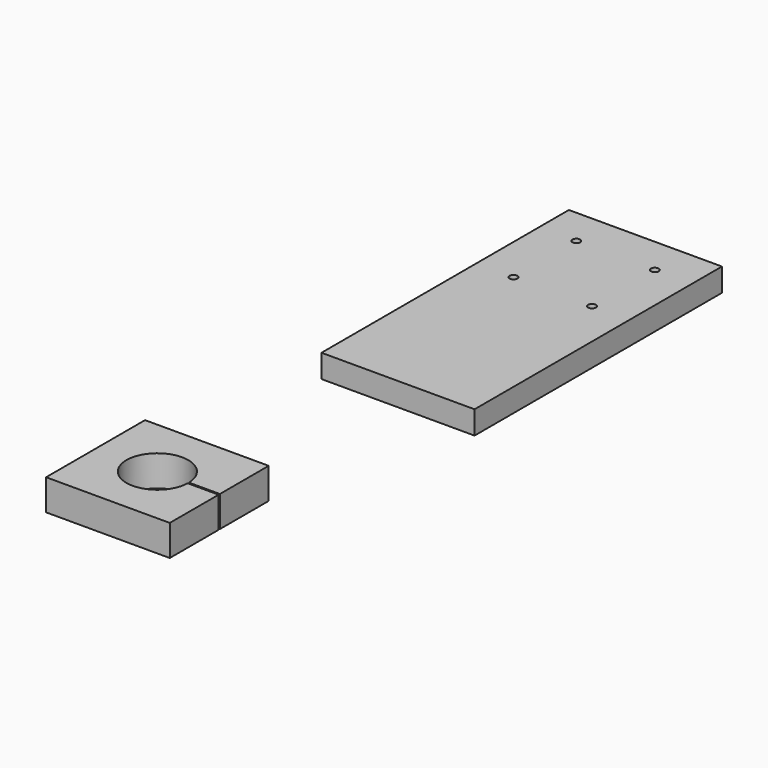
from build123d import *

# Parameters (mm, degrees)
F0_W     = 99
F0_H     = 200
F0_R     = 2.5
F1_DEPTH = 15
F3_DEPTH = 20


with BuildPart() as f1:
    # F0 (on Top) → F1 (new body)
    with BuildSketch(Plane.XY):
        with Locations((-49.299974, 94.966339)):
            Rectangle(F0_W, F0_H)
        with Locations((-74.699974, 120.066339)):
            Circle(F0_R, mode=Mode.SUBTRACT)
        with Locations((-74.699974, 170.866339)):
            Circle(F0_R, mode=Mode.SUBTRACT)
        with Locations((-23.899974, 120.066339)):
            Circle(F0_R, mode=Mode.SUBTRACT)
        with Locations((-23.899974, 170.866339)):
            Circle(F0_R, mode=Mode.SUBTRACT)
    extrude(amount=F1_DEPTH)


with BuildPart() as f3:
    # F2 (on Top) → F3 (new body)
    with BuildSketch(Plane.XY):
        with BuildLine():
            Line((-36.365502, -125.763206), (-116.365502, -125.763206))
            Line((-116.365502, -125.763206), (-116.365502, -205.763206))
            Line((-116.365502, -205.763206), (-36.365502, -205.763206))
            Line((-36.365502, -205.763206), (-36.365502, -166.263206))
            Line((-36.365502, -166.263206), (-56.371753, -166.263206))
            ThreePointArc((-56.371753, -166.263206), (-96.365502, -165.763206), (-56.371753, -165.263206))
            Line((-56.371753, -165.263206), (-36.365502, -165.263206))
            Line((-36.365502, -165.263206), (-36.365502, -125.763206))
        make_face()
    extrude(amount=F3_DEPTH)


solid = Compound([f1.part, f3.part])
